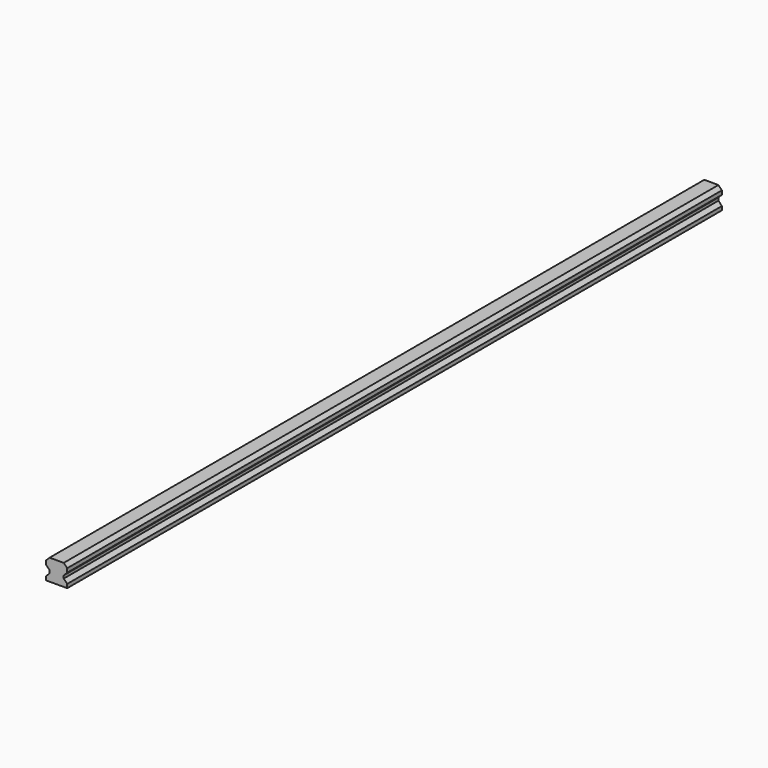
from build123d import *

# Parameters (mm, degrees)
PAD_DEPTH = 580


with BuildPart() as part:
    # Sketch → Pad (new body)
    with BuildSketch(Plane.XZ):
        Polygon((-7.5, 0), (7.5, 0), (7.5, 2.7), (5, 5.2), (5, 7.2), (7.5, 9.7), (7.5, 12.5), (5, 15), (-5, 15), (-7.5, 12.5), (-7.5, 9.7), (-5, 7.2), (-5, 5.2), (-7.5, 2.7), align=None)
    extrude(amount=PAD_DEPTH)


solid = part.part
